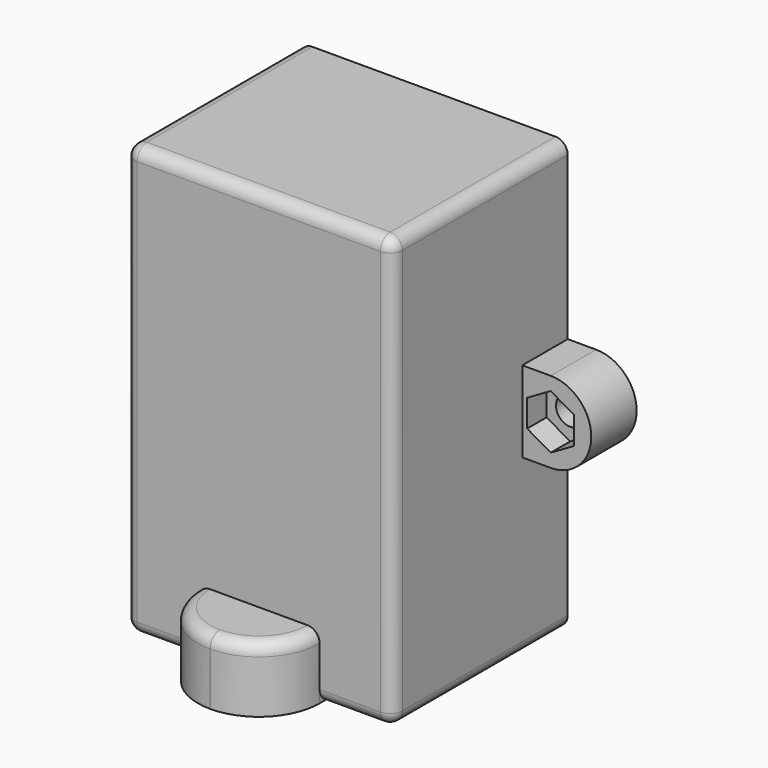
from build123d import *

# Parameters (mm, degrees)
SKETCH_R        = 1.75
PAD_DEPTH       = 27
SKETCH001_W     = 29
SKETCH001_H     = 49
POCKET_DEPTH    = 25
SKETCH002_W     = 9
SKETCH002_H     = 10
POCKET001_DEPTH = 20
POCKET002_DEPTH = 3
PAD001_DEPTH    = 8
POCKET003_DEPTH = 6
FILLET_R        = 1.5
FILLET001_R     = 1.5
FILLET002_R     = 1.5
FILLET003_R     = 1


with BuildPart() as part:
    # Sketch → Pad (new body)
    with BuildSketch(Plane.XZ):
        with BuildLine():
            Line((-16.5, 26.5), (16.5, 26.5))
            Line((16.5, 26.5), (16.5, 5))
            Line((16.5, 5), (20, 5))
            ThreePointArc((20, -5), (25, 0), (20, 5))
            Line((20, -5), (16.5, -5))
            Line((16.5, -5), (16.5, -26.5))
            Line((16.5, -26.5), (-16.5, -26.5))
            Line((-16.5, -26.5), (-16.5, -5))
            Line((-20, -5), (-16.5, -5))
            ThreePointArc((-20, 5), (-25, 0), (-20, -5))
            Line((-16.5, 5), (-20, 5))
            Line((-16.5, 5), (-16.5, 26.5))
        make_face()
        with Locations((-20, 0)):
            Circle(SKETCH_R, mode=Mode.SUBTRACT)
        with Locations((20, 0)):
            Circle(SKETCH_R, mode=Mode.SUBTRACT)
    extrude(amount=PAD_DEPTH)

    # Sketch001 (on Face15 of Pad) → Pocket (cut)
    with BuildSketch(Plane(origin=(0, 0, 0), x_dir=(1, 0, 0), z_dir=(0, 1, 0))):
        Rectangle(SKETCH001_W, SKETCH001_H)
    extrude(amount=-POCKET_DEPTH, mode=Mode.SUBTRACT)

    # Sketch002 (on Face5 of Pocket) → Pocket001 (cut)
    with BuildSketch(Plane.XZ.offset(27)):
        with Locations((-21, 0)):
            Rectangle(SKETCH002_W, SKETCH002_H)
        with Locations((21, 0)):
            Rectangle(SKETCH002_W, SKETCH002_H)
    extrude(amount=-POCKET001_DEPTH, mode=Mode.SUBTRACT)

    # Sketch003 (on Face8 of Pocket001) → Pocket002 (cut)
    with BuildSketch(Plane.XZ.offset(7)):
        Polygon((-17.1, 1.674316), (-20, 3.348632), (-22.9, 1.674316), (-22.9, -1.674316), (-20, -3.348632), (-17.1, -1.674316), align=None)
        Polygon((22.9, 1.674316), (20, 3.348632), (17.1, 1.674316), (17.1, -1.674316), (20, -3.348632), (22.9, -1.674316), align=None)
    extrude(amount=-POCKET002_DEPTH, mode=Mode.SUBTRACT)

    # Sketch004 (on Face14 of Pocket002) → Pad001 (join)
    with BuildSketch(Plane(origin=(0, 0, -26.5), x_dir=(1, 0, 0), z_dir=(0, 0, -1))):
        with BuildLine():
            Line((-7.5, 27), (7.5, 27))
            Line((7.5, 27), (7.5, 27.01))
            ThreePointArc((7.5, 27.01), (5.30623, 32.30623), (0.01, 34.5))
            Line((0.01, 34.5), (-0.01, 34.5))
            ThreePointArc((-0.01, 34.5), (-5.30623, 32.30623), (-7.5, 27.01))
            Line((-7.5, 27.01), (-7.5, 27))
        make_face()
    extrude(amount=-PAD001_DEPTH)

    # Sketch005 (on Face14 of Pad001) → Pocket003 (cut)
    with BuildSketch(Plane(origin=(0, 0, -26.5), x_dir=(1, 0, 0), z_dir=(0, 0, -1))):
        with BuildLine():
            Line((-5.5, 0), (5.5, 0))
            Line((5.5, 0), (5.5, 27))
            ThreePointArc((5.5, 27), (0, 32.5), (-5.5, 27))
            Line((-5.5, 27), (-5.5, 0))
        make_face()
    extrude(amount=-POCKET003_DEPTH, mode=Mode.SUBTRACT)

    # Fillet
    fillet_edges = [part.edges().sort_by_distance(p)[0] for p in [
        (16.5, -13.5, 26.5),
        (-16.5, -13.5, 26.5),
        (-16.5, -13.5, -26.5),
        (16.5, -13.5, -26.5),
    ]]
    fillet(fillet_edges, radius=FILLET_R)

    # Fillet001
    fillet001_edges = [part.edges().sort_by_distance(p)[0] for p in [
        (-16.5, -27, -15),
    ]]
    fillet(fillet001_edges, radius=FILLET001_R)

    # Fillet002
    fillet002_edges = [part.edges().sort_by_distance(p)[0] for p in [
        (0, -25, -20.5),
        (5.30623, -32.30623, -18.5),
    ]]
    fillet(fillet002_edges, radius=FILLET002_R)

    # Fillet003
    fillet003_edges = [part.edges().sort_by_distance(p)[0] for p in [
        (14.5, -12.5, -24.5),
        (-14.5, -12.5, -24.5),
        (-14.5, -12.5, 24.5),
        (14.5, -12.5, 24.5),
    ]]
    fillet(fillet003_edges, radius=FILLET003_R)


solid = part.part
